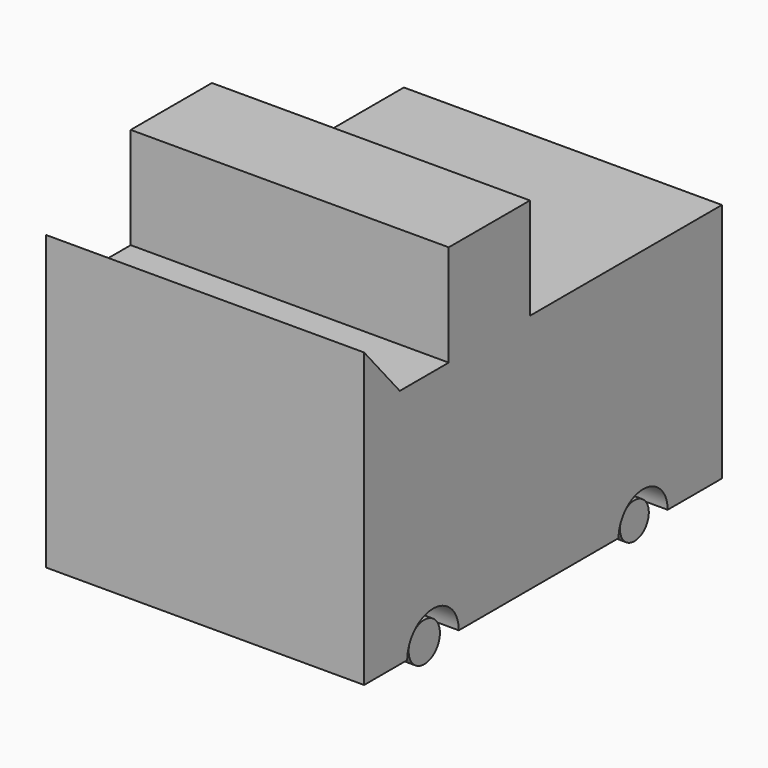
from build123d import *

# Parameters (mm, degrees)
F1_DEPTH = 46.228
F2_R     = 5.686984
F2_R_2   = 5.242146
F3_DEPTH = 43.688


with BuildPart() as f1:
    # F0 (on Right) → F1 (new body, symmetric)
    with BuildSketch(Plane.YZ):
        with BuildLine():
            Line((-29.507887, 5.667107), (-47.304157, 5.667107))
            Line((-47.304157, 5.667107), (-60.264818, 20.774527))
            Line((-60.264818, 20.774527), (-60.264818, 5.667107))
            Line((-60.264818, 5.667107), (-60.264818, -64.340554))
            Line((-60.264818, -64.340554), (-44.612939, -64.340554))
            ThreePointArc((-44.612939, -64.340554), (-35.232473, -54.960088), (-25.852007, -64.340554))
            Line((-25.852007, -64.340554), (32.207619, -64.340554))
            ThreePointArc((32.207619, -64.340554), (41.127946, -55.420226), (50.048274, -64.340554))
            Line((50.048274, -64.340554), (69.761112, -64.340554))
            Line((69.761112, -64.340554), (69.761112, 5.667107))
            Line((69.761112, 5.667107), (0, 5.667107))
            Line((0, 5.667107), (0, 35.174993))
            Line((0, 35.174993), (-29.507887, 35.174993))
            Line((-29.507887, 35.174993), (-29.507887, 5.667107))
        make_face()
    extrude(amount=F1_DEPTH, both=True)


with BuildPart() as f3:
    # F2 (on Right) → F3 (new body, symmetric)
    with BuildSketch(Plane.YZ):
        with Locations((-35.232473, -64.340554)):
            Circle(F2_R)
        with Locations((41.127946, -64.340554)):
            Circle(F2_R_2)
    extrude(amount=F3_DEPTH, both=True)


solid = Compound([f1.part, f3.part])
